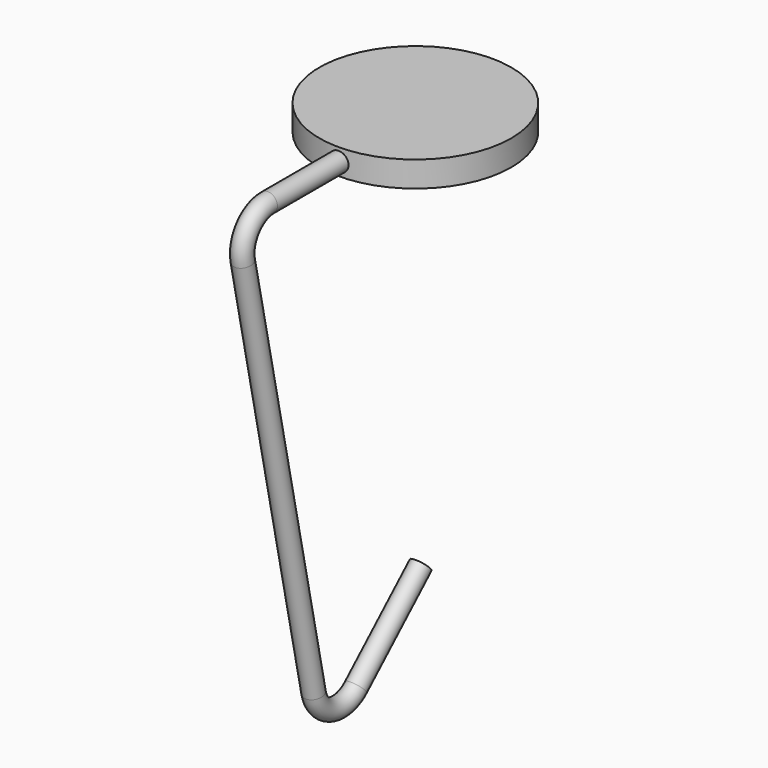
from build123d import *

# Parameters (mm, degrees)
F0_R     = 15
F1_DEPTH = 4
F2_R     = 1.5


with BuildPart() as f1:
    # F0 (on Top) → F1 (new body)
    with BuildSketch(Plane.XY):
        Circle(F0_R)
    extrude(amount=F1_DEPTH)

    # F4: sweep along a path in F3
    with BuildLine(Plane.YZ) as f4_path:
        Line((0, 2), (-28.8247203179, 2))
        ThreePointArc((-28.8247203179, 2), (-32.7106479726, 0.1463576184), (-33.7153275502, -4.0401734949))
        Line((-33.7153275502, -4.0401734949), (-19.8906072323, -69.0401734949))
        ThreePointArc((-19.8906072323, -69.0401734949), (-16.5160267602, -72.7646262038), (-11.6096927913, -71.6750261265))
        Line((-11.6096927913, -71.6750261265), (1.045805192, -60))
    # F2 (on Front) → F4 (sweep)
    with BuildSketch(Plane.XZ):
        with Locations((0, 2)):
            Circle(F2_R)
    sweep(path=f4_path.line)


solid = f1.part
